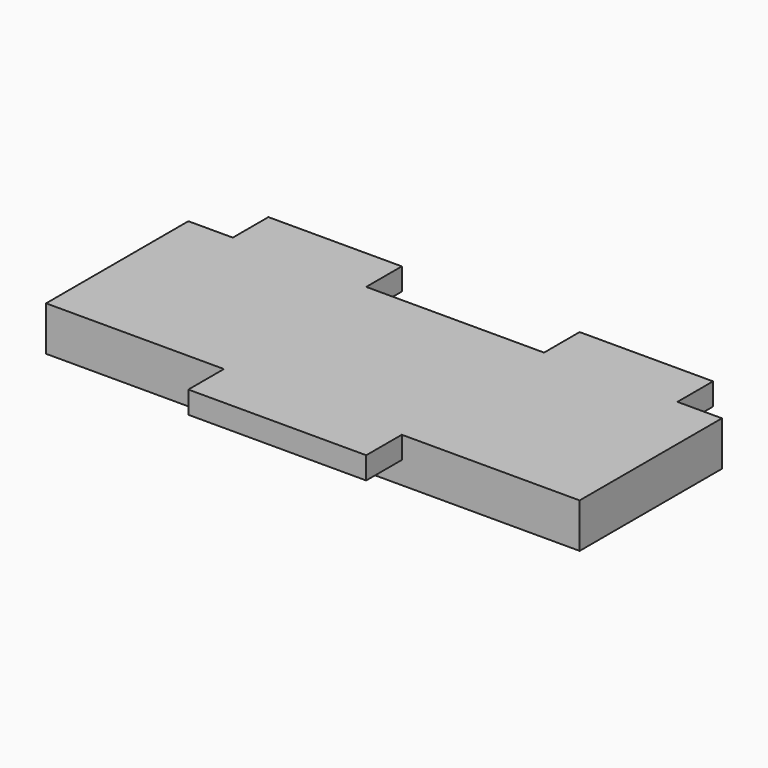
from build123d import *

# Parameters (mm, degrees)
F0_W     = 25.4
F0_H     = 6.35
F1_DEPTH = 76.2
F2_W     = 25.4
F2_H     = 3.175
F3_DEPTH = 6.35
F4_W     = 19.05
F4_H     = 3.175
F5_DEPTH = 6.35


with BuildPart() as f1:
    # F0 (on Right) → F1 (new body)
    with BuildSketch(Plane.YZ):
        Rectangle(F0_W, F0_H)
    extrude(amount=F1_DEPTH)

    # F2 (on face) → F3 (join)
    with BuildSketch(Plane.XZ.offset(12.7)):
        with Locations((38.1, 1.5875)):
            Rectangle(F2_W, F2_H)
    extrude(amount=F3_DEPTH)

    # F4 (on face) → F5 (join)
    with BuildSketch(Plane(origin=(0, 12.7, 0), x_dir=(-1, 0, 0), z_dir=(0, 1, 0))):
        with Locations((-60.325, 1.5875)):
            Rectangle(F4_W, F4_H)
        with Locations((-15.875, 1.5875)):
            Rectangle(F4_W, F4_H)
    extrude(amount=F5_DEPTH)


solid = f1.part
